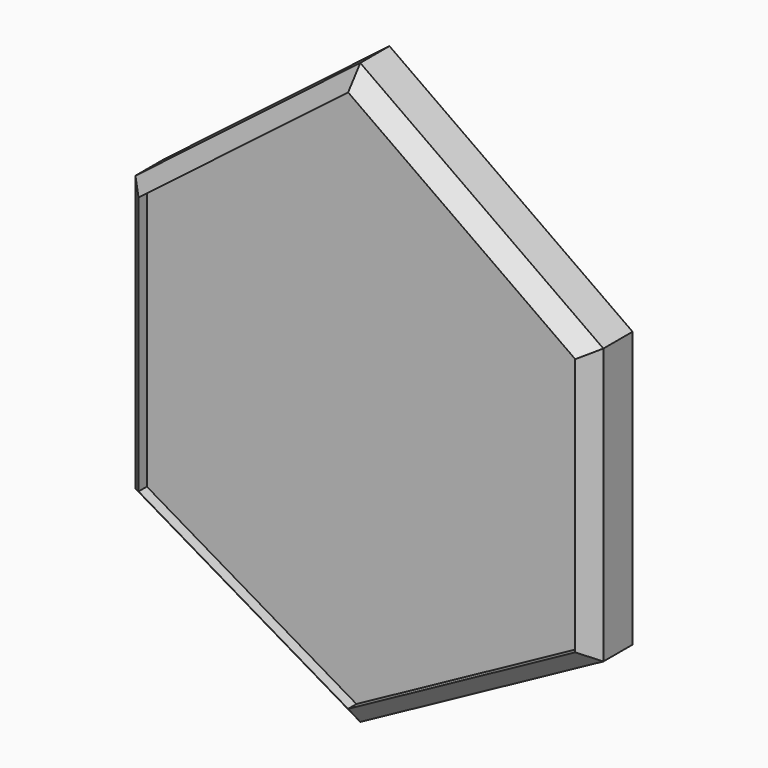
from build123d import *

# Parameters (mm, degrees)
F1_DEPTH = 12.7
F2_SIZE  = 3.81
F3_DEPTH = 2.54


with BuildPart() as f1:
    # F0 (on Front) → F1 (new body)
    with BuildSketch(Plane.XZ):
        Polygon((59.229627, 26.558874), (0, 68.564124), (-54.784626, 26.558874), (-54.784626, -40.560622), (0, -72.786875), (59.229627, -40.560622), align=None)
    extrude(amount=F1_DEPTH)

    # F2
    f2_edges = [f1.edges().sort_by_distance(p)[0] for p in [
        (59.229627, -12.7, -7.000874),
        (29.614814, -12.7, 47.561499),
        (-27.392313, -12.7, 47.561499),
        (-54.784626, -12.7, -7.000874),
        (-27.392313, -12.7, -56.673748),
        (29.614814, -12.7, -56.673748),
    ]]
    chamfer(f2_edges, length=F2_SIZE)

    # F1_face (on face) → F3 (cut)
    with BuildSketch(Plane(origin=(1.953457, -12.7, -4.300965), x_dir=(1, 0, 0), z_dir=(0, -1, 0))):
        Polygon((53.46617, -33.995203), (53.46617, 28.890993), (-1.865273, 68.131678), (-52.928083, 28.980071), (-52.928083, -34.080543), (-1.880286, -64.108661), align=None)
    extrude(amount=-F3_DEPTH, mode=Mode.SUBTRACT)


solid = f1.part
